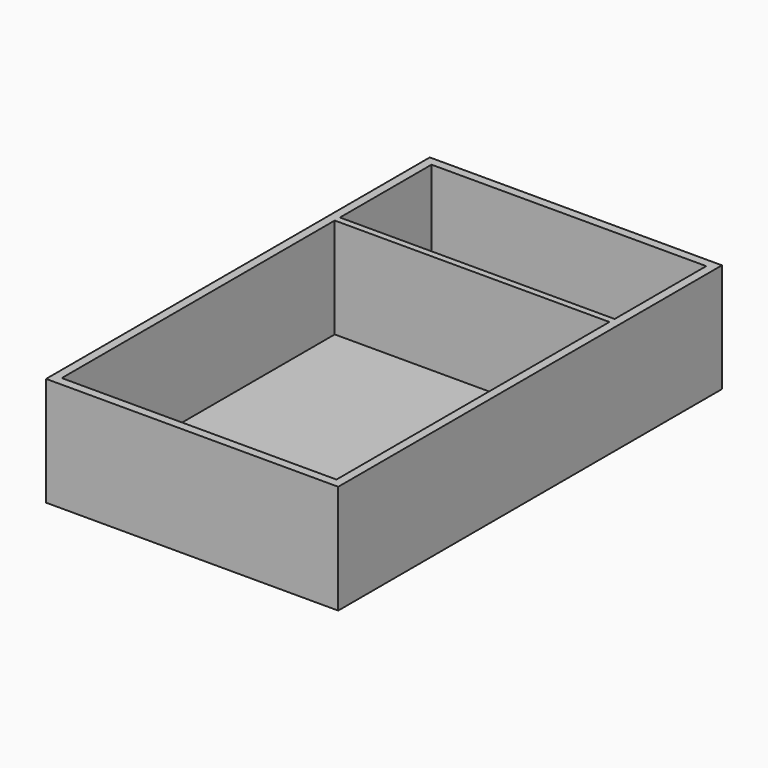
from build123d import *

# Parameters (mm, degrees)
SKETCH022_W    = 67
SKETCH022_H    = 110
PAD009_DEPTH   = 25
THICKNESS002_T = -2
SKETCH023_W    = 1.5
SKETCH023_H    = 25
PAD010_DEPTH   = 63


with BuildPart() as part:
    # Sketch022 → Pad009 (new body)
    with BuildSketch(Plane.XY):
        Rectangle(SKETCH022_W, SKETCH022_H)
    extrude(amount=PAD009_DEPTH)

    # Thickness002
    thickness002_openings = [part.faces().sort_by_distance(p)[0] for p in [
        (0, 0, 25),
    ]]
    offset(amount=THICKNESS002_T, openings=thickness002_openings)

    # Sketch023 (on DatumPlane) → Pad010 (join)
    with BuildSketch(Plane(origin=(-31.5, 26, 0), x_dir=(0, 1, 0), z_dir=(1, 0, 0))):
        with Locations((0, 12.5)):
            Rectangle(SKETCH023_W, SKETCH023_H)
    extrude(amount=PAD010_DEPTH)


with BuildPart() as part_1:
    # Body010 placement: moved
    add(part.part.moved(Location((-61, -60, 0))))


solid = part_1.part
